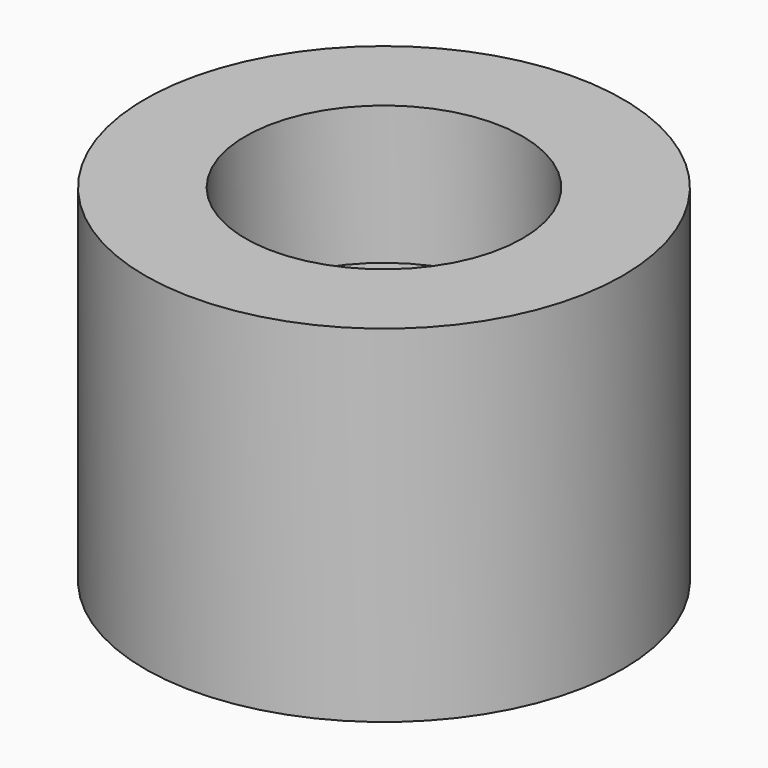
from build123d import *

# Parameters (mm, degrees)
F0_R     = 6.9
F0_R_2   = 1.5
F1_DEPTH = 10
F2_R     = 4
F3_DEPTH = 4
F4_SIZE  = 0.5


with BuildPart() as f1:
    # F0 (on Top) → F1 (new body)
    with BuildSketch(Plane.XY):
        Circle(F0_R)
        Circle(F0_R_2, mode=Mode.SUBTRACT)
    extrude(amount=F1_DEPTH)

    # F2 (on face) → F3 (cut)
    with BuildSketch(Plane.XY.offset(10)):
        Circle(F2_R)
    extrude(amount=-F3_DEPTH, mode=Mode.SUBTRACT)

    # F4
    f4_edges = [f1.edges().sort_by_distance(p)[0] for p in [
        (-1.5, 0, 6),
    ]]
    chamfer(f4_edges, length=F4_SIZE)


solid = f1.part
